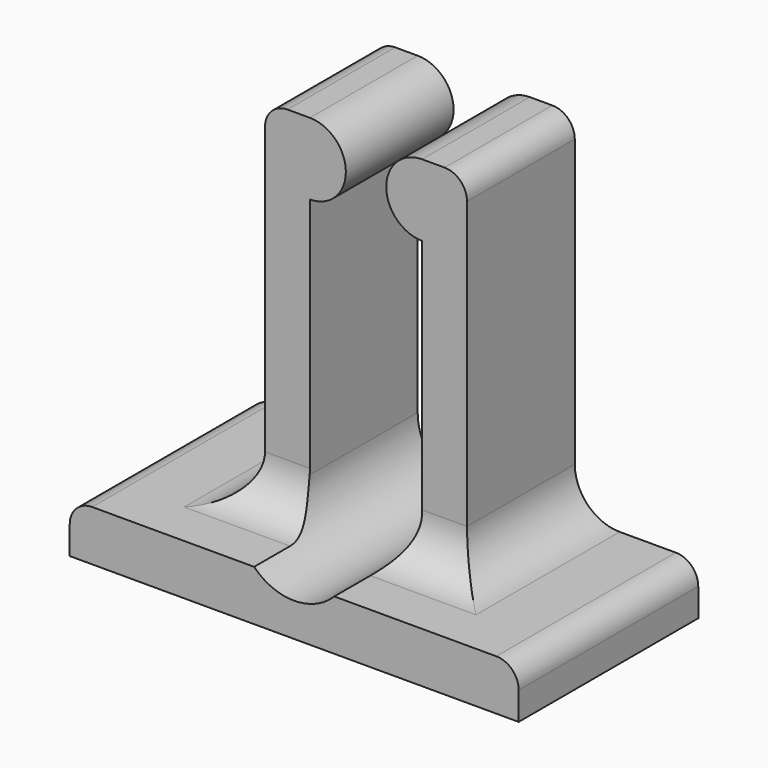
from build123d import *

# Parameters (mm, degrees)
F1_DEPTH      = 10
F2_R          = 1
F3_R          = 1
F4_R          = 1
F5_R          = 1
F6_W          = 4
F6_H          = 15.75
F7_DEPTH      = 10.001
F7_DEPTH_BACK = 10.001
F8_R          = 2


with BuildPart() as f1:
    # F0 (on Front) → F1 (new body)
    with BuildSketch(Plane.XZ):
        with BuildLine():
            Line((-10, 0), (0, 0))
            Line((0, 0), (10, 0))
            Line((10, 0), (10, 2.25))
            Line((10, 2.25), (6.5, 2.25))
            ThreePointArc((6.5, 2.25), (5.0857864376, 2.8357864376), (4.5, 4.25))
            Line((4.5, 4.25), (4.5, 18))
            Line((4.5, 18), (2.5, 18))
            ThreePointArc((2.5, 18), (0.9, 16.4), (2.5, 14.8))
            Line((2.5, 14.8), (2.5, 4))
            ThreePointArc((2.5, 4), (0, 1.5), (-2.5, 4))
            Line((-2.5, 4), (-2.5, 14.8))
            ThreePointArc((-2.5, 14.8), (-0.9, 16.4), (-2.5, 18))
            Line((-2.5, 18), (-4.5, 18))
            Line((-4.5, 18), (-4.5, 4.25))
            ThreePointArc((-4.5, 4.25), (-5.0857864376, 2.8357864376), (-6.5, 2.25))
            Line((-6.5, 2.25), (-10, 2.25))
            Line((-10, 2.25), (-10, 0))
        make_face()
    extrude(amount=F1_DEPTH)

    # F2
    f2_edges = [f1.edges().sort_by_distance(p)[0] for p in [
        (4.5, -5, 18),
    ]]
    fillet(f2_edges, radius=F2_R)

    # F3
    f3_edges = [f1.edges().sort_by_distance(p)[0] for p in [
        (-4.5, -5, 18),
    ]]
    fillet(f3_edges, radius=F3_R)

    # F4
    f4_edges = [f1.edges().sort_by_distance(p)[0] for p in [
        (10, -5, 2.25),
    ]]
    fillet(f4_edges, radius=F4_R)

    # F5
    f5_edges = [f1.edges().sort_by_distance(p)[0] for p in [
        (-10, -5, 2.25),
    ]]
    fillet(f5_edges, radius=F5_R)

    # F6 (on Right) → F7 (cut, two sides)
    with BuildSketch(Plane.YZ) as f7_sk:
        with Locations((-8, 10.125)):
            Rectangle(F6_W, F6_H)
    extrude(amount=-F7_DEPTH, mode=Mode.SUBTRACT)
    extrude(f7_sk.sketch, amount=F7_DEPTH_BACK, mode=Mode.SUBTRACT)

    # F8
    f8_edges = [f1.edges().sort_by_distance(p)[0] for p in [
        (-4.142679, -6, 2.25),
        (4.142679, -6, 2.25),
    ]]
    fillet(f8_edges, radius=F8_R)


solid = f1.part
